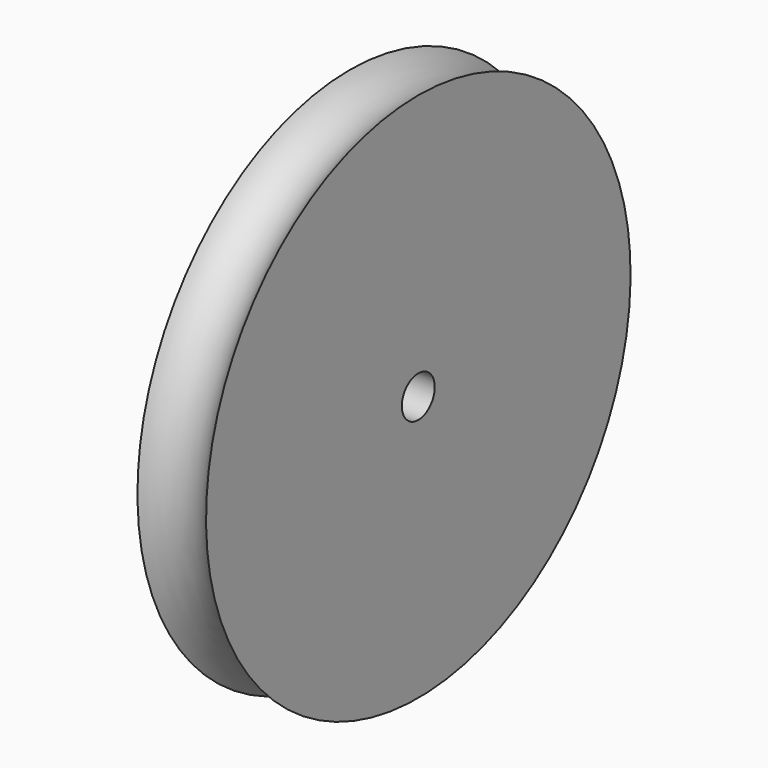
from build123d import *


with BuildPart() as f2:
    # F0 (on Front) → F2 (revolve)
    with BuildSketch(Plane.XZ):
        with BuildLine():
            ThreePointArc((1.25, 9.670844), (0, 9), (-1.25, 9.670844))
            Line((-1.25, 9.670844), (-1.25, 0.75))
            Line((-1.25, 0.75), (1.25, 0.75))
            Line((1.25, 0.75), (1.25, 9.670844))
        make_face()
    revolve(axis=Axis((-2.344014, 0, 0), (-1, 0, 0)))


solid = f2.part
